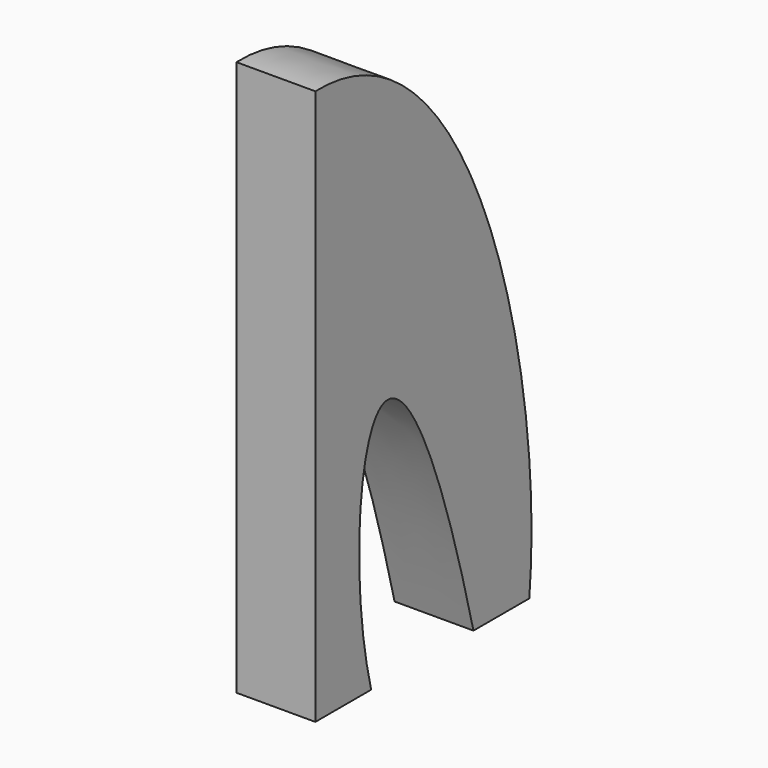
from build123d import *

# Parameters (mm, degrees)
F1_DEPTH = 7.62


with BuildPart() as f1:
    # F0 (on Right) → F1 (new body)
    with BuildSketch(Plane.YZ):
        with BuildLine():
            add(Edge.make_bspline(
                [(-19.090105, 13.194632), (0, 13.756105), (8.702842, -21.336002), (6.737684, -40.426105)],
                knots=[0, 0, 0, 0, 59.516873, 59.516873, 59.516873, 59.516873], degree=3))
            Line((-19.090105, 13.194632), (-19.090105, -40.426105))
            Line((-19.090105, -40.426105), (-12.352421, -40.426105))
            add(Edge.make_bspline(
                [(-12.352421, -40.426105), (-16.687382, -23.635885), (-10.930565, 3.560112), (0, -40.426105)],
                knots=[0, 0, 0, 0, 12.352421, 12.352421, 12.352421, 12.352421], degree=3))
            Line((0, -40.426105), (6.737684, -40.426105))
        make_face()
    extrude(amount=F1_DEPTH)


solid = f1.part
